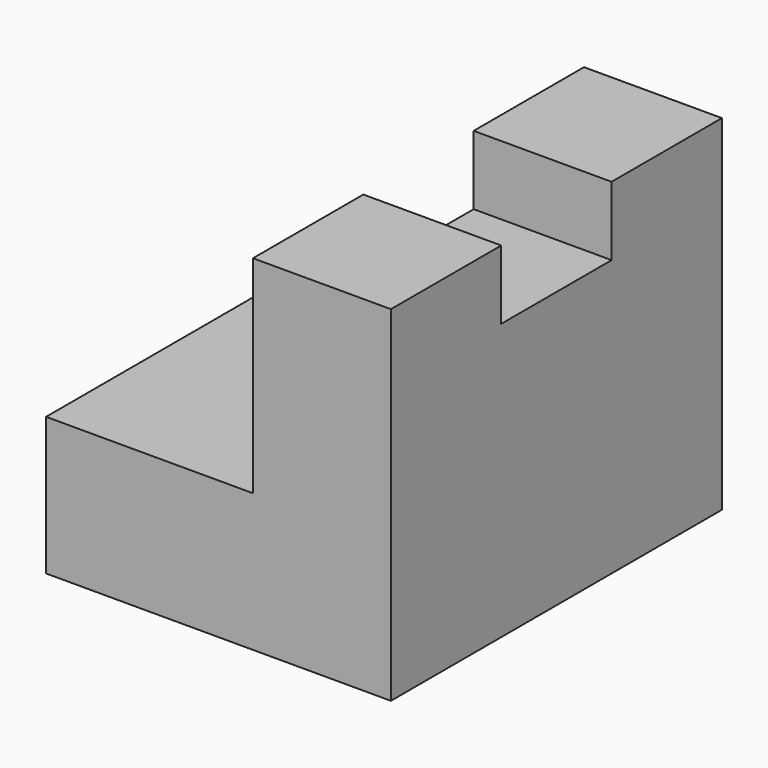
from build123d import *

# Parameters (mm, degrees)
F1_DEPTH = 38.1
F2_W     = 12.7
F2_H     = 6.35
F3_DEPTH = 25.4


with BuildPart() as f1:
    # F0 (on Front) → F1 (new body)
    with BuildSketch(Plane.XZ):
        Polygon((-41.944957, 12.7), (-41.944957, 0), (-10.194957, 0), (-10.194957, 31.75), (-22.894957, 31.75), (-22.894957, 12.7), align=None)
    extrude(amount=F1_DEPTH)

    # F2 (on face) → F3 (cut)
    with BuildSketch(Plane.YZ.offset(-10.194957)):
        with Locations((-19.05, 28.575)):
            Rectangle(F2_W, F2_H)
    extrude(amount=-F3_DEPTH, mode=Mode.SUBTRACT)


solid = f1.part
